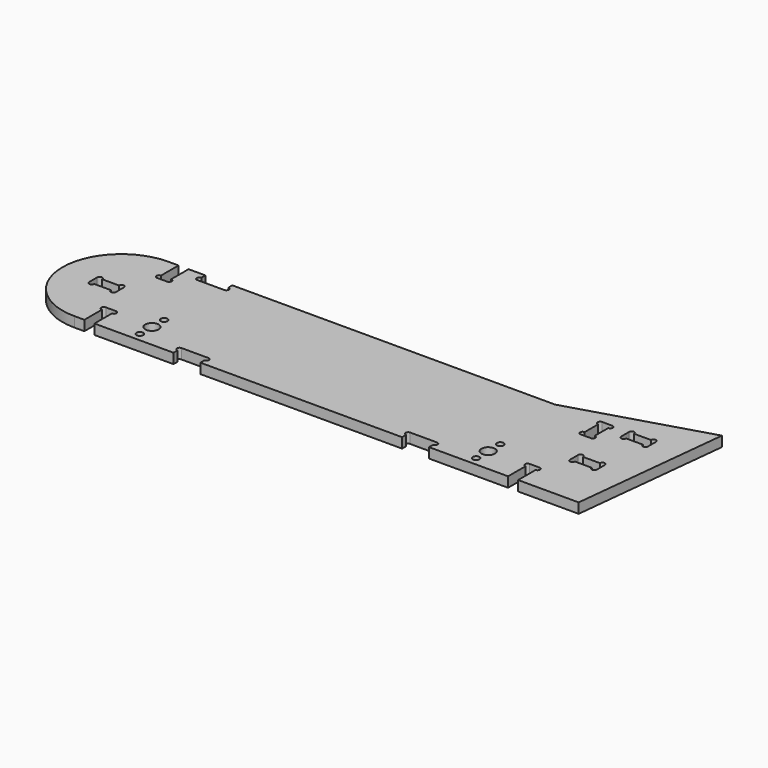
from build123d import *

# Parameters (mm, degrees)
SKETCH_R        = 1
SKETCH_R_2      = 2
PAD_DEPTH       = 3
POCKET_DEPTH    = 360.627901
POCKET001_DEPTH = 3.001
POCKET002_DEPTH = 360.627901
POCKET005_DEPTH = 3.001


with BuildPart() as part:
    # Sketch → Pad (new body)
    with BuildSketch(Plane.XY):
        with BuildLine():
            Line((-67.5, 28), (47.5, 28))
            Line((87.5, 40), (47.5, 28))
            Line((82.5, -7), (87.5, 40))
            Line((67.5, -7), (82.5, -7))
            Line((67.5, -7), (-67.5, -7))
            ThreePointArc((-67.5, 28), (-85, 10.5), (-67.5, -7))
        make_face()
        with Locations((-50, 4.5)):
            Circle(SKETCH_R, mode=Mode.SUBTRACT)
        with Locations((-50, -4.5)):
            Circle(SKETCH_R, mode=Mode.SUBTRACT)
        with Locations((-50, 0)):
            Circle(SKETCH_R_2, mode=Mode.SUBTRACT)
        with Locations((50, 0)):
            Circle(SKETCH_R_2, mode=Mode.SUBTRACT)
        with Locations((50, 4.5)):
            Circle(SKETCH_R, mode=Mode.SUBTRACT)
        with Locations((50, -4.5)):
            Circle(SKETCH_R, mode=Mode.SUBTRACT)
    extrude(amount=PAD_DEPTH)

    # Sketch001 → Pocket (cut, through all)
    with BuildSketch(Plane.XY.offset(3)):
        with BuildLine():
            Line((-67.5, 11.50065), (-67.5, 8.50065))
            ThreePointArc((-69.002, 8.50065), (-68.251, 7.74965), (-67.5, 8.50065))
            Line((-73.998, 8.50065), (-69.002, 8.50065))
            ThreePointArc((-75.5, 8.50065), (-74.749, 7.74965), (-73.998, 8.50065))
            Line((-75.5, 8.50065), (-75.5, 11.50065))
            ThreePointArc((-73.998, 11.50065), (-74.749, 12.25165), (-75.5, 11.50065))
            Line((-73.998, 11.50065), (-69.002, 11.50065))
            ThreePointArc((-67.5, 11.50065), (-68.251, 12.25165), (-69.002, 11.50065))
        make_face()
        with BuildLine():
            Line((-64.5, 1), (-61.5, 1))
            ThreePointArc((-61.5, -0.502), (-60.749, 0.249), (-61.5, 1))
            Line((-61.5, -0.502), (-61.5, -7))
            Line((-61.5, -7), (-64.5, -7))
            Line((-64.5, -0.502), (-64.5, -7))
            ThreePointArc((-64.5, 1), (-65.251, 0.249), (-64.5, -0.502))
        make_face()
        with BuildLine():
            Line((-64.5, 28), (-61.5, 28))
            Line((-61.5, 21.502), (-61.5, 28))
            ThreePointArc((-61.5, 20), (-60.749, 20.751), (-61.5, 21.502))
            Line((-61.5, 20), (-64.5, 20))
            ThreePointArc((-64.5, 21.502), (-65.251, 20.751), (-64.5, 20))
            Line((-64.5, 28), (-64.5, 21.502))
        make_face()
    pocket = extrude(amount=-POCKET_DEPTH, mode=Mode.SUBTRACT)

    # Mirrored: Pocket across Sketch001 V_Axis
    add(pocket.mirror(Plane(origin=(0, 0, 3), x_dir=(0, 0, 1), z_dir=(1, 0, 0))), mode=Mode.SUBTRACT)

    # Sketch002 → Pocket001 (cut, through all)
    with BuildSketch(Plane.XY.offset(3)):
        with BuildLine():
            ThreePointArc((61.5, 28), (60.749, 27.249), (61.5, 26.498))
            Line((61.5, 26.498), (64.5, 26.498))
            ThreePointArc((64.5, 26.498), (65.251, 27.249), (64.5, 28))
            Line((61.5, 28), (64.5, 28))
        make_face()
    extrude(amount=-POCKET001_DEPTH, mode=Mode.SUBTRACT)

    # Sketch003 → Pocket002 (cut, through all)
    with BuildSketch(Plane.XY.offset(3)):
        with BuildLine():
            Line((-38, -4), (-30, -4))
            ThreePointArc((-30, -5.502), (-29.249, -4.751), (-30, -4))
            Line((-30, -5.502), (-30, -7))
            Line((-30, -7), (-38, -7))
            Line((-38, -5.502), (-38, -7))
            ThreePointArc((-38, -4), (-38.751, -4.751), (-38, -5.502))
        make_face()
    pocket002 = extrude(amount=-POCKET002_DEPTH, mode=Mode.SUBTRACT)

    # Mirrored001: Pocket002 across Sketch003 V_Axis
    add(pocket002.mirror(Plane(origin=(0, 0, 3), x_dir=(0, 0, 1), z_dir=(1, 0, 0))), mode=Mode.SUBTRACT)

    # Sketch008 → Pocket005 (cut, through all)
    with BuildSketch(Plane.XY.offset(3)):
        with BuildLine():
            Line((-48.5, 28), (-56.5, 28))
            Line((-56.5, 28), (-56.5, 26.502))
            ThreePointArc((-56.5, 26.502), (-57.251, 25.751), (-56.5, 25))
            Line((-56.5, 25), (-48.5, 25))
            ThreePointArc((-48.5, 25), (-47.749, 25.751), (-48.5, 26.502))
            Line((-48.5, 28), (-48.5, 26.502))
        make_face()
        with BuildLine():
            Line((77.5, 28), (77.5, 25))
            ThreePointArc((75.998, 25), (76.749, 24.249), (77.5, 25))
            Line((71.002, 25), (75.998, 25))
            ThreePointArc((69.5, 25), (70.251, 24.249), (71.002, 25))
            Line((69.5, 25), (69.5, 28))
            ThreePointArc((71.002, 28), (70.251, 28.751), (69.5, 28))
            Line((71.002, 28), (75.998, 28))
            ThreePointArc((77.5, 28), (76.749, 28.751), (75.998, 28))
        make_face()
    extrude(amount=-POCKET005_DEPTH, mode=Mode.SUBTRACT)


solid = part.part
